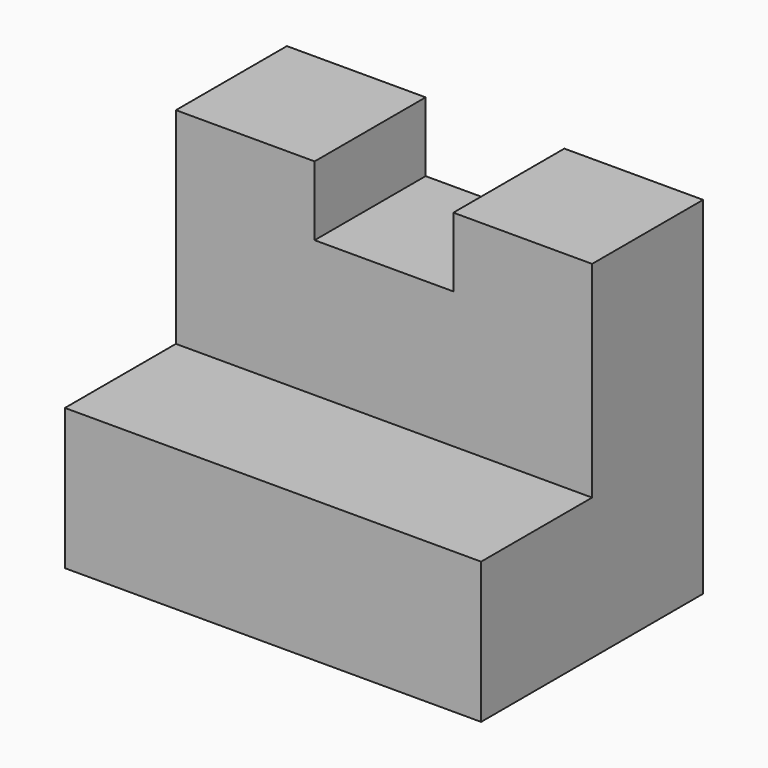
from build123d import *

# Parameters (mm, degrees)
F1_DEPTH = 12.7
F2_W     = 38.1
F2_H     = 12.915451
F3_DEPTH = 12.7


with BuildPart() as f1:
    # F0 (on Front) → F1 (new body)
    with BuildSketch(Plane.XZ):
        Polygon((-22.919758, 18.834549), (-35.619758, 18.834549), (-35.619758, -12.915451), (2.480242, -12.915451), (2.480242, 18.834549), (-10.219758, 18.834549), (-10.219758, 12.484549), (-22.919758, 12.484549), align=None)
    extrude(amount=F1_DEPTH)

    # F2 (on face) → F3 (join)
    with BuildSketch(Plane.XZ.offset(12.7)):
        with Locations((-16.569758, -6.457725)):
            Rectangle(F2_W, F2_H)
    extrude(amount=F3_DEPTH)


solid = f1.part
